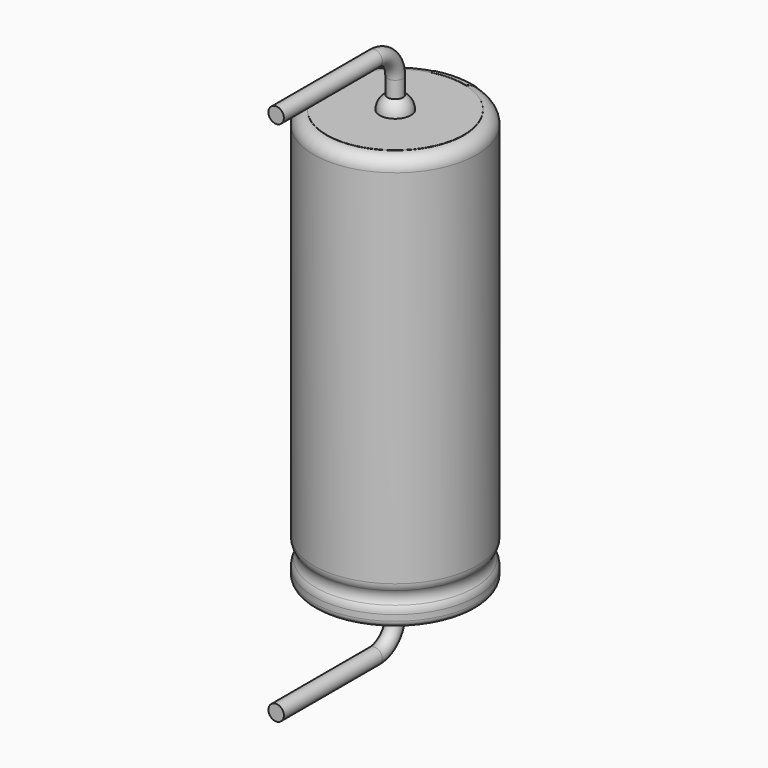
from build123d import *

# Parameters (mm, degrees)
SKETCH011_R             = 0.3
BODY007_PLACEMENT_ANGLE = 180
REVOLUTION001_ANGLE     = -30
POCKET_DEPTH            = 3.161
LINEARPATTERN_COUNT     = 4
LINEARPATTERN_PITCH     = 3.666667
SKETCH012_R             = 2.65
PAD_DEPTH               = 0.01
BODY008_PLACEMENT_ANGLE = 90


with BuildPart() as lead:
    # AdditivePipe: sweep along a path in Sketch010
    with BuildLine(Plane(origin=(0, 0, 0), x_dir=(0, -1, 0), z_dir=(-1, 0, 0))) as additivepipe_path:
        Line((0, 16), (0, 17.16))
        ThreePointArc((0, 17.16), (0.292893, 17.867107), (1, 18.16))
        Line((1, 18.16), (5.75, 18.16))
    # Sketch011 → AdditivePipe (sweep)
    with BuildSketch(Plane.XY.offset(16)):
        Circle(SKETCH011_R)
    sweep(path=additivepipe_path.line)


with BuildPart() as obj1:
    # Body007 base: copy of Lead
    add(lead.part)


with BuildPart() as obj1_1:
    # Body007 placement: moved
    add(obj1.part.moved(Location((0, 0, 16))).rotate(Axis((0, 0, 16), (0, 1, 0)), BODY007_PLACEMENT_ANGLE))


with BuildPart() as polaritymarking:
    # Sketch005 → Revolution001 (revolve)
    with BuildSketch(Plane(origin=(0, 0, 0), x_dir=(-0.258819, 0.965926, 0), z_dir=(0.965926, 0.258819, 0))):
        with BuildLine():
            Line((2.66, 0.043526), (2.66, 16.01))
            ThreePointArc((2.66, 16.01), (3.013553, 15.863553), (3.16, 15.51))
            Line((3.16, 15.51), (3.16, 1.523941))
            ThreePointArc((3.16, 1.523941), (3.139134, 1.381006), (3.078278, 1.25))
            ThreePointArc((3.078278, 1.25), (3.003698, 1), (3.078278, 0.75))
            ThreePointArc((3.078278, 0.75), (3.139134, 0.618994), (3.16, 0.476059))
            Line((3.16, 0.476059), (3.16, 0.043526))
            ThreePointArc((3.16, 0.043526), (2.91, -0.206474), (2.66, 0.043526))
        make_face()
    revolve(axis=Axis((0, 0, 0), (0, 0, 1)), revolution_arc=REVOLUTION001_ANGLE)

    # Sketch013 → Pocket (cut, through all)
    with BuildSketch(Plane.XZ):
        Polygon((0.375, 2), (-0.375, 2), (-0.375, 3), (0, 3.5), (0.375, 3), align=None)
    pocket = extrude(amount=-POCKET_DEPTH, mode=Mode.SUBTRACT)

    # LinearPattern: Pocket ×4
    with Locations(*[(0, 0, i * LINEARPATTERN_PITCH) for i in range(1, LINEARPATTERN_COUNT)]):
        add(pocket, mode=Mode.SUBTRACT)


with BuildPart() as housing:
    # Sketch → Revolution (revolve)
    with BuildSketch(Plane.XZ):
        with BuildLine():
            Line((0, 16), (2.65, 16))
            ThreePointArc((3.15, 15.5), (3.003553, 15.853553), (2.65, 16))
            Line((3.15, 15.5), (3.15, 1.523941))
            ThreePointArc((3.068278, 1.25), (3.129134, 1.381006), (3.15, 1.523941))
            ThreePointArc((3.068278, 1.25), (2.993698, 1), (3.068278, 0.75))
            ThreePointArc((3.15, 0.476059), (3.129134, 0.618994), (3.068278, 0.75))
            Line((3.15, 0.476059), (3.15, 0.25))
            ThreePointArc((2.9, 0), (3.076777, 0.073223), (3.15, 0.25))
            Line((0, 0), (2.9, 0))
            Line((0, 16), (0, 0))
        make_face()
    revolve(axis=Axis((0, 0, 0), (0, 0, 1)))


with BuildPart() as fusion:
    # Sphere → Sphere (revolve)
    with BuildSketch(Plane.XZ):
        with BuildLine():
            ThreePointArc((0, -0.6), (0.6, 0), (0, 0.6))
            Line((0, 0.6), (0, -0.6))
        make_face()
    revolve(axis=Axis((0, 0, 0), (0, 0, 1)))

    # Sketch012 (on ShapeBinder) → Pad (new body)
    with BuildSketch(Plane(origin=(0, 0, 0), x_dir=(0, -1, 0), z_dir=(0, 0, 1))):
        Circle(SKETCH012_R)
    extrude(amount=PAD_DEPTH)


with BuildPart() as fusion_1:
    # Body008 placement: moved
    add(fusion.part.moved(Location((0, 0, 16))).rotate(Axis((0, 0, 16), (0, 0, -1)), BODY008_PLACEMENT_ANGLE))

    # Fusion: union obj1, Lead, PolarityMarking, Housing
    add(obj1_1.part)
    add(lead.part)
    add(polaritymarking.part)
    add(housing.part)


solid = fusion_1.part
